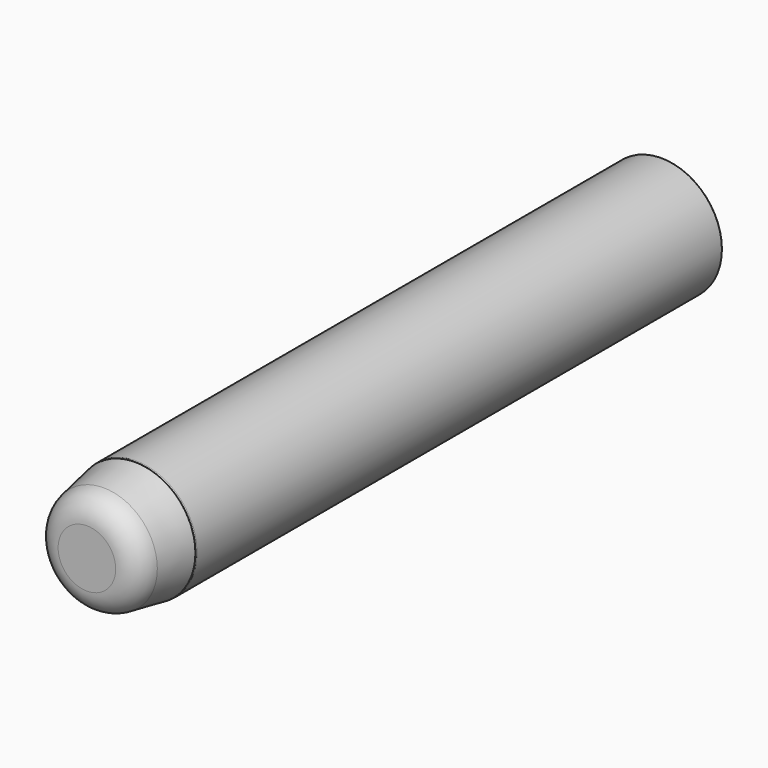
from build123d import *

# Parameters (mm, degrees)
F0_R     = 6
F0_R_2   = 3
F1_DEPTH = 65
F2_DEPTH = 6
F2_TAPER = 10
F3_R     = 2.5
F4_T     = -0.8
F5_R     = 0.5
F6_DEPTH = 6.5591826482
F7_R     = 0.1
F7_2_R   = 0.1


with BuildPart() as f1:
    # F0 (on Front) → F1 (new body)
    with BuildSketch(Plane.XZ):
        Circle(F0_R)
        Circle(F0_R_2, mode=Mode.SUBTRACT)
    extrude(amount=-F1_DEPTH)

    # F7
    f7_edges = [f1.edges().sort_by_distance(p)[0] for p in [
        (6, 32.5, 0),
        (-6, 0, 0),
        (-6, 65, 0),
        (3, 32.5, 0),
        (-3, 0, 0),
        (-3, 65, 0),
    ]]
    fillet(f7_edges, radius=F7_R)


with BuildPart() as f2:
    # F0 (on Front) → F2 (new body)
    with BuildSketch(Plane.XZ):
        Circle(F0_R)
        Circle(F0_R_2, mode=Mode.SUBTRACT)
        Circle(F0_R_2)
    extrude(amount=F2_DEPTH, taper=F2_TAPER)

    # F3
    f3_edges = [f2.edges().sort_by_distance(p)[0] for p in [
        (-4.942038, -6, 0),
    ]]
    fillet(f3_edges, radius=F3_R)

    # F4 (hollow: no face is removed)
    offset(amount=F4_T, mode=Mode.SUBTRACT)

    # F5 (on Right) → F6 (cut, up to face)
    with BuildSketch(Plane.YZ):
        with Locations((-3, 0)):
            Circle(F5_R)
    extrude(amount=-F6_DEPTH, mode=Mode.SUBTRACT)

    # F7#2
    f7_2_edges = [f2.edges().sort_by_distance(p)[0] for p in [
        (-6, 0, 0),
    ]]
    fillet(f7_2_edges, radius=F7_2_R)


solid = Compound([f1.part, f2.part])
